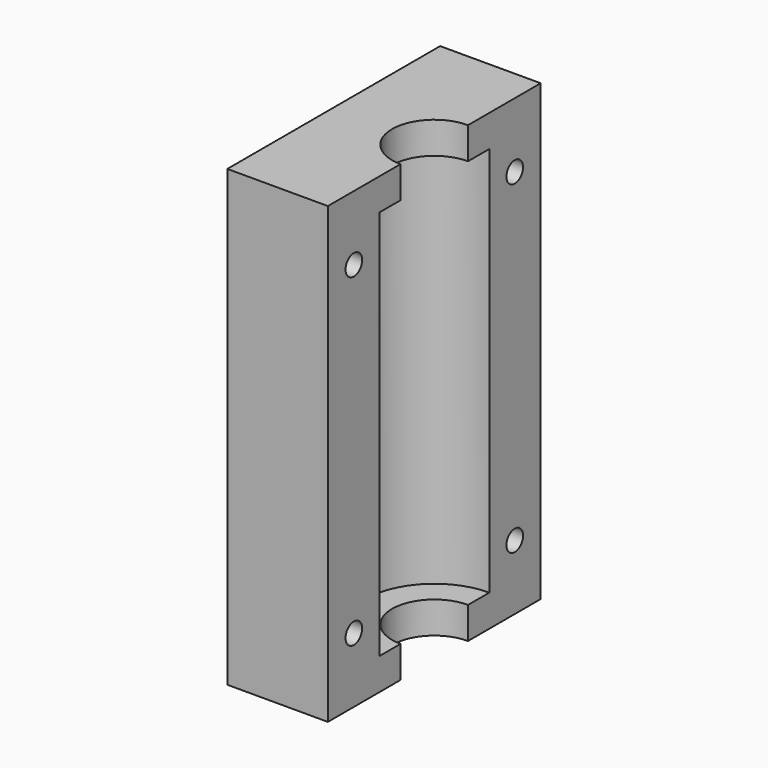
from build123d import *

# Parameters (mm, degrees)
PAD_DEPTH       = 35
SKETCH001_R     = 10.6
POCKET_DEPTH    = 30.1
SKETCH002_R     = 1.6
POCKET001_DEPTH = 15.501
SKETCH003_R     = 3.1
POCKET002_DEPTH = 5


with BuildPart() as part:
    # Sketch → Pad (new body, symmetric)
    with BuildSketch(Plane.XY):
        with BuildLine():
            ThreePointArc((0, 6.5), (-6.5, 0), (0, -6.5))
            Line((0, -20.5), (0, -6.5))
            Line((-15.5, -20.5), (0, -20.5))
            Line((-15.5, 20.5), (-15.5, -20.5))
            Line((0, 20.5), (-15.5, 20.5))
            Line((0, 6.5), (0, 20.5))
        make_face()
    extrude(amount=PAD_DEPTH, both=True)

    # Sketch001 → Pocket (cut, symmetric)
    with BuildSketch(Plane.XY):
        Circle(SKETCH001_R)
    extrude(amount=POCKET_DEPTH, both=True, mode=Mode.SUBTRACT)

    # Sketch002 → Pocket001 (cut, through all)
    with BuildSketch(Plane.YZ):
        with Locations((-15.5, 25)):
            Circle(SKETCH002_R)
        with Locations((-15.5, -25)):
            Circle(SKETCH002_R)
        with Locations((15.5, 25)):
            Circle(SKETCH002_R)
        with Locations((15.5, -25)):
            Circle(SKETCH002_R)
    extrude(amount=-POCKET001_DEPTH, mode=Mode.SUBTRACT)

    # Sketch003 (on Face7 of Pocket001) → Pocket002 (cut)
    with BuildSketch(Plane(origin=(-15.5, 0, 0), x_dir=(0, -1, 0), z_dir=(-1, 0, 0))):
        with Locations((-15.5, 25)):
            Circle(SKETCH003_R)
        with Locations((15.5, 25)):
            Circle(SKETCH003_R)
        with Locations((15.5, -25)):
            Circle(SKETCH003_R)
        with Locations((-15.5, -25)):
            Circle(SKETCH003_R)
    extrude(amount=-POCKET002_DEPTH, mode=Mode.SUBTRACT)


solid = part.part
